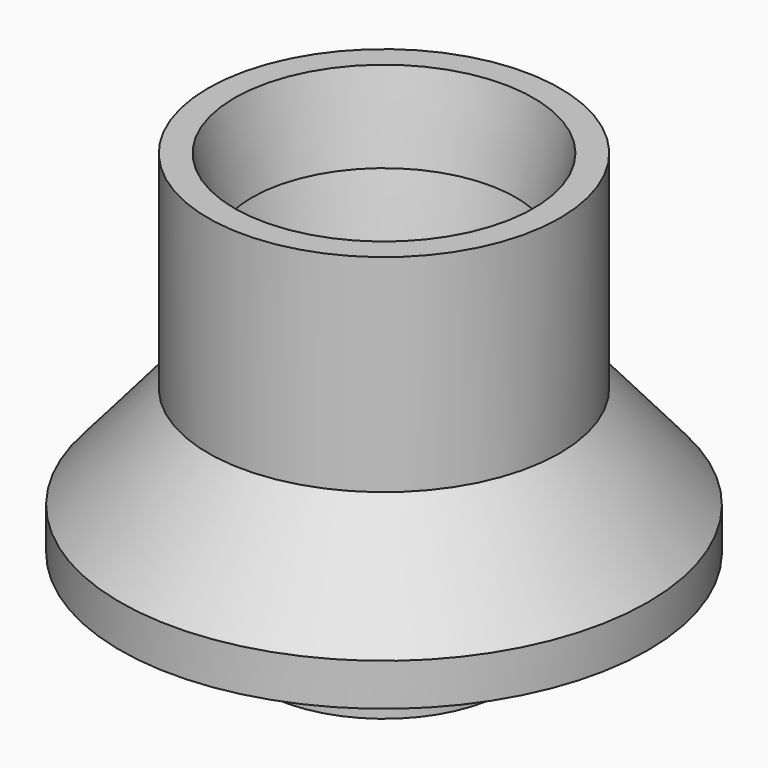
from build123d import *


with BuildPart() as f2:
    # F1 (on Front) → F2 (revolve)
    with BuildSketch(Plane.XZ):
        Polygon((-3.75, 7.672805), (-4.25, 10), (-5, 10), (-5, 4.118945), (-7.5, 1.2), (-7.5, 0), (-3.5, 0), (-3.5, -2.333108), (-2.5, -2.333108), (-2.5, 0), (-3.987852, 1.2), (-4.25, 3.018414), (-3.75, 3.018414), (-4.25, 5.345609), (-3.75, 5.345609), (-4.25, 7.672805), align=None)
    revolve(axis=Axis((0, 0, 6.619667), (0, 0, -1)))


solid = f2.part
